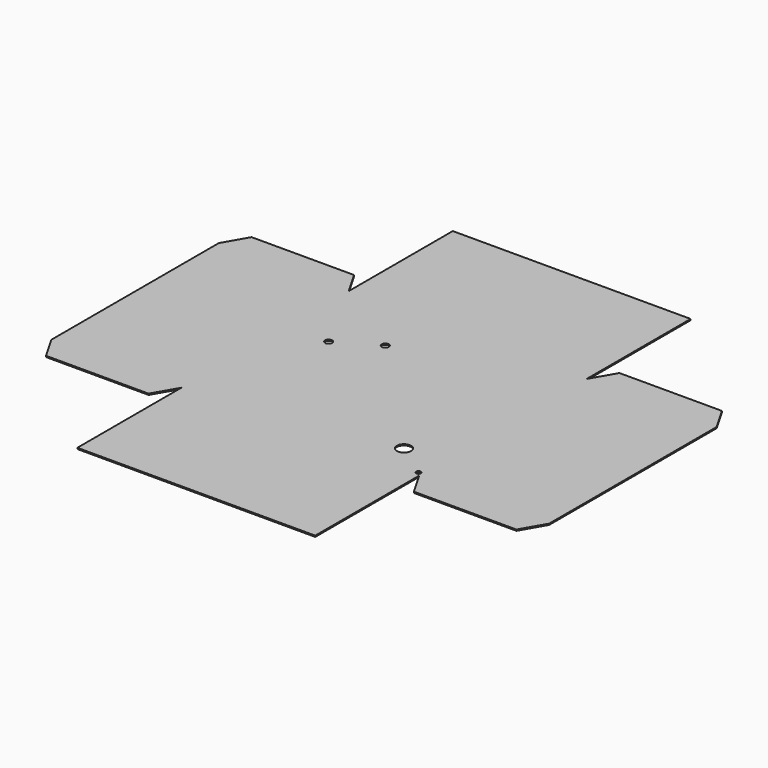
from build123d import *

# Parameters (mm, degrees)
F0_W     = 317.5
F0_H     = 173.482
F0_W_2   = 173.482
F0_H_2   = 279.4
F0_R     = 3.175
F0_R_2   = 9.525
F0_R_3   = 4.7625
F1_DEPTH = 1.5875


with BuildPart() as f1:
    # F0 (on Top) → F1 (new body)
    with BuildSketch(Plane.XY):
        with Locations((0, 226.441)):
            Rectangle(F0_W, F0_H)
        Polygon((-332.232, 139.7), (-158.75, 139.7), (-177.080871, 171.45), (-313.901129, 171.45), align=None)
        with Locations((-245.491, 0)):
            Rectangle(F0_W_2, F0_H_2)
        Polygon((-177.080871, -171.45), (-158.75, -139.7), (-332.232, -139.7), (-313.901129, -171.45), align=None)
        with Locations((0, -226.441)):
            Rectangle(F0_W, F0_H)
        Rectangle(F0_W, F0_H_2)
        with Locations((153.67, -134.62)):
            Circle(F0_R, mode=Mode.SUBTRACT)
        with Locations((107.95, -101.6)):
            Circle(F0_R_2, mode=Mode.SUBTRACT)
        with Locations((-103.8098, 37.465)):
            Circle(F0_R_3, mode=Mode.SUBTRACT)
        with Locations((-52.1208, 67.31)):
            Circle(F0_R_3, mode=Mode.SUBTRACT)
        with Locations((245.491, 0)):
            Rectangle(F0_W_2, F0_H_2)
        Polygon((332.232, -139.7), (158.75, -139.7), (177.080871, -171.45), (313.901129, -171.45), align=None)
        Polygon((177.080871, 171.45), (158.75, 139.7), (332.232, 139.7), (313.901129, 171.45), align=None)
    extrude(amount=F1_DEPTH)


solid = f1.part
